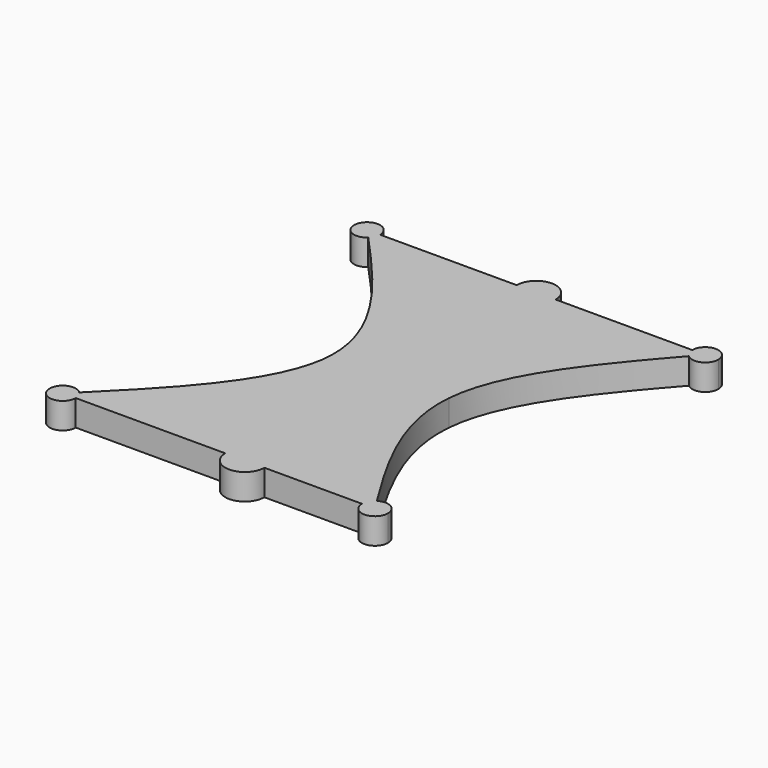
from build123d import *

# Parameters (mm, degrees)
F1_DEPTH = 2


with BuildPart() as f1:
    # F0 (on Top) → F1 (new body)
    with BuildSketch(Plane.XY):
        with BuildLine():
            Line((-1.5, 0), (-12, 0))
            ThreePointArc((-12, 0), (-12.0844269539, -0.4021517092), (-12.3234519944, -0.7363985308))
            add(Edge.make_bspline(
                [(-4.5, -14), (-4.3891116577, -9.6131472112), (-8.2521815349, -5.1760880577), (-12.3234519944, -0.7363985308)],
                knots=[0.5040590467, 0.5040590467, 0.5040590467, 0.5040590467, 0.9740170405, 0.9740170405, 0.9740170405, 0.9740170405], degree=3))
            Line((-4.5, -14), (0, -14))
            Line((0, -14), (0, 0))
            Line((0, 0), (-1.5, 0))
        make_face()
        with BuildLine():
            add(Edge.make_bspline(
                [(-12.3234519944, -0.7363985308), (-12.548543719, -0.4909377141), (-12.7742718595, -0.2454688571), (-13, 0)],
                knots=[0.9740170405, 0.9740170405, 0.9740170405, 0.9740170405, 1, 1, 1, 1], degree=3))
            Line((-13, 0), (-12, 0))
            ThreePointArc((-12, 0), (-13.9155730461, 0.4021517092), (-12.3234519944, -0.7363985308))
        make_face()
        with BuildLine():
            Line((-12, 0), (-13, 0))
            add(Edge.make_bspline(
                [(-12.3234519944, -0.7363985308), (-12.548543719, -0.4909377141), (-12.7742718595, -0.2454688571), (-13, 0)],
                knots=[0.9740170405, 0.9740170405, 0.9740170405, 0.9740170405, 1, 1, 1, 1], degree=3))
            ThreePointArc((-12.3234519944, -0.7363985308), (-12.0844269539, -0.4021517092), (-12, 0))
        make_face()
        with BuildLine():
            ThreePointArc((1.5, 0), (0, 1.5), (-1.5, 0))
            Line((-1.5, 0), (0, 0))
            Line((0, 0), (1.5, 0))
        make_face()
        with BuildLine():
            Line((1.5, 0), (0, 0))
            Line((0, 0), (0, -14))
            Line((0, -14), (4.5, -14))
            add(Edge.make_bspline(
                [(4.5, -14), (4.8873717131, -9.4889035195), (8.5259428322, -5.1168226845), (12.3411742057, -0.7522955355)],
                knots=[0.4893591819, 0.4893591819, 0.4893591819, 0.4893591819, 0.9722533362, 0.9722533362, 0.9722533362, 0.9722533362], degree=3))
            ThreePointArc((12.3411742057, -0.7522955355), (12.0892789136, -0.4130219157), (12, 0))
            Line((12, 0), (1.5, 0))
        make_face()
        with BuildLine():
            Line((13, 0), (12, 0))
            ThreePointArc((12, 0), (12.0892789136, -0.4130219157), (12.3411742057, -0.7522955355))
            add(Edge.make_bspline(
                [(12.3411742057, -0.7522955355), (12.5603939689, -0.5015137311), (12.7801969844, -0.2507568656), (13, 0)],
                knots=[0.9722533362, 0.9722533362, 0.9722533362, 0.9722533362, 1, 1, 1, 1], degree=3))
        make_face()
        with BuildLine():
            ThreePointArc((14, 0), (13, 1), (12, 0))
            Line((12, 0), (13, 0))
            add(Edge.make_bspline(
                [(12.3411742057, -0.7522955355), (12.5603939689, -0.5015137311), (12.7801969844, -0.2507568656), (13, 0)],
                knots=[0.9722533362, 0.9722533362, 0.9722533362, 0.9722533362, 1, 1, 1, 1], degree=3))
            ThreePointArc((12.3411742057, -0.7522955355), (13.4130219157, -0.9107210864), (14, 0))
        make_face()
        with BuildLine():
            ThreePointArc((11, -28), (10.4850372943, -27.1255065334), (9.4705223537, -27.1516761102))
            add(Edge.make_bspline(
                [(10, -28), (9.8232672343, -27.7172150988), (9.6465344686, -27.4344301976), (9.4705223537, -27.1516761102)],
                knots=[0, 0, 0, 0, 0.0293542477, 0.0293542477, 0.0293542477, 0.0293542477], degree=3))
            Line((10, -28), (9, -28))
            ThreePointArc((9, -28), (10, -29), (11, -28))
        make_face()
        with BuildLine():
            add(Edge.make_bspline(
                [(10, -28), (9.8232672343, -27.7172150988), (9.6465344686, -27.4344301976), (9.4705223537, -27.1516761102)],
                knots=[0, 0, 0, 0, 0.0293542477, 0.0293542477, 0.0293542477, 0.0293542477], degree=3))
            ThreePointArc((9.4705223537, -27.1516761102), (9.1255065334, -27.5149627057), (9, -28))
            Line((9, -28), (10, -28))
        make_face()
        with BuildLine():
            Line((4.5, -14), (0, -14))
            Line((0, -14), (0, -28))
            Line((0, -28), (1.5, -28))
            Line((1.5, -28), (9, -28))
            ThreePointArc((9, -28), (9.1255065334, -27.5149627057), (9.4705223537, -27.1516761102))
            add(Edge.make_bspline(
                [(9.4705223537, -27.1516761102), (6.7122693633, -22.7206895986), (4.1309897359, -18.2972701609), (4.5, -14)],
                knots=[0.0293542477, 0.0293542477, 0.0293542477, 0.0293542477, 0.4893591819, 0.4893591819, 0.4893591819, 0.4893591819], degree=3))
        make_face()
        with BuildLine():
            Line((1.5, -28), (0, -28))
            Line((0, -28), (-1.5, -28))
            ThreePointArc((-1.5, -28), (0, -29.5), (1.5, -28))
        make_face()
        with BuildLine():
            Line((0, -14), (-4.5, -14))
            add(Edge.make_bspline(
                [(-13.2899311985, -27.2958676991), (-8.8473556209, -22.8830217317), (-4.6129280602, -18.4675460549), (-4.5, -14)],
                knots=[0.0254564852, 0.0254564852, 0.0254564852, 0.0254564852, 0.5040590467, 0.5040590467, 0.5040590467, 0.5040590467], degree=3))
            ThreePointArc((-13.2899311985, -27.2958676991), (-13.0753192979, -27.6192565178), (-13, -28))
            Line((-13, -28), (-1.5, -28))
            Line((-1.5, -28), (0, -28))
            Line((0, -28), (0, -14))
        make_face()
        with BuildLine():
            ThreePointArc((-13, -28), (-13.0753192979, -27.6192565178), (-13.2899311985, -27.2958676991))
            add(Edge.make_bspline(
                [(-14, -28), (-13.7631141096, -27.7652917129), (-13.5262282193, -27.5305834259), (-13.2899311985, -27.2958676991)],
                knots=[0, 0, 0, 0, 0.0254564852, 0.0254564852, 0.0254564852, 0.0254564852], degree=3))
            Line((-14, -28), (-13, -28))
        make_face()
        with BuildLine():
            add(Edge.make_bspline(
                [(-14, -28), (-13.7631141096, -27.7652917129), (-13.5262282193, -27.5305834259), (-13.2899311985, -27.2958676991)],
                knots=[0, 0, 0, 0, 0.0254564852, 0.0254564852, 0.0254564852, 0.0254564852], degree=3))
            ThreePointArc((-13.2899311985, -27.2958676991), (-14.9246807021, -28.3807434822), (-13, -28))
            Line((-13, -28), (-14, -28))
        make_face()
    extrude(amount=F1_DEPTH)


solid = f1.part
